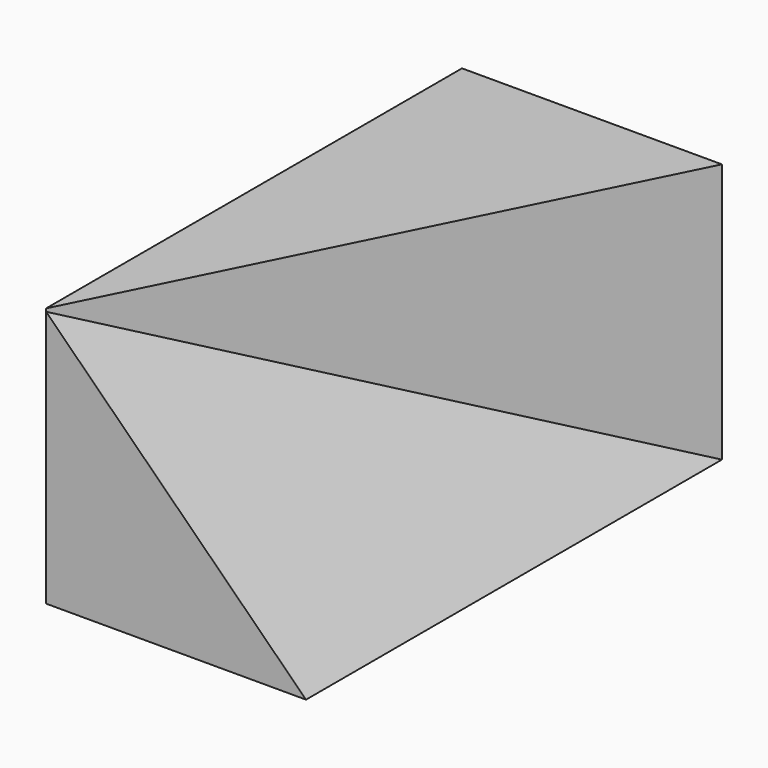
from build123d import *

# Parameters (mm, degrees)
F1_DEPTH = 50
F3_DEPTH = 100


with BuildPart() as f1:
    # F0 (on Top) → F1 (new body)
    with BuildSketch(Plane.XY):
        Polygon((0, 100), (0, 0), (50, 100), align=None)
    extrude(amount=F1_DEPTH)

    # F2 (on Front) → F3 (join)
    with BuildSketch(Plane.XZ):
        Polygon((50, 0), (0, 49.431257), (0, 0), align=None)
    extrude(amount=-F3_DEPTH)


solid = f1.part
